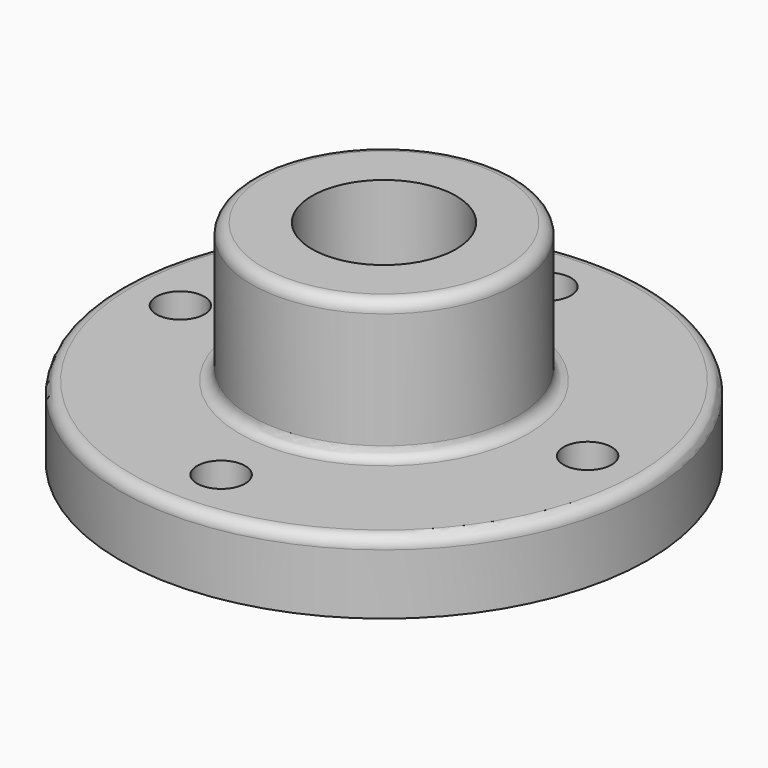
from build123d import *

# Parameters (mm, degrees)
F2_R     = 19.05
F3_DEPTH = 55.881
F4_R     = 3.048
F5_R     = 6.35
F6_DEPTH = 19.051


with BuildPart() as f1:
    # F0 (on Front) → F1 (revolve)
    with BuildSketch(Plane.XZ):
        Polygon((0, 55.88), (0, 0), (69.85, 0), (69.85, 19.05), (35.052, 19.05), (35.052, 55.88), align=None)
    revolve(axis=Axis((0, 0, 27.94), (0, 0, -1)))

    # F2 (on face) → F3 (cut, through all)
    with BuildSketch(Plane.XY.offset(55.88)):
        Circle(F2_R)
    extrude(amount=-F3_DEPTH, mode=Mode.SUBTRACT)

    # F4
    f4_edges = [f1.edges().sort_by_distance(p)[0] for p in [
        (-35.052, 0, 55.88),
        (-69.85, 0, 19.05),
        (-35.052, 0, 19.05),
    ]]
    fillet(f4_edges, radius=F4_R)

    # F5 (on face) → F6 (cut, through all)
    with BuildSketch(Plane.XY.offset(19.05)):
        with Locations((-53.848, 0)):
            Circle(F5_R)
        with Locations((0, 53.848)):
            Circle(F5_R)
        with Locations((53.848, 0)):
            Circle(F5_R)
        with Locations((0, -53.848)):
            Circle(F5_R)
    extrude(amount=-F6_DEPTH, mode=Mode.SUBTRACT)


solid = f1.part
